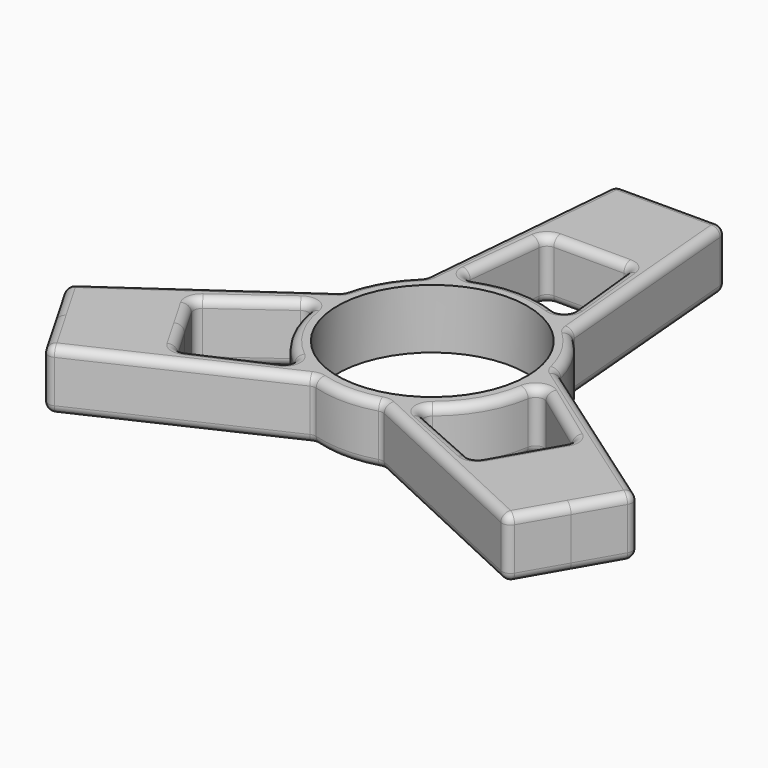
from build123d import *

# Parameters (mm, degrees)
F0_R     = 11.15
F1_DEPTH = 7
F2_R     = 1


with BuildPart() as f1:
    # F0 (on Top) → F1 (new body)
    with BuildSketch(Plane.XY):
        with BuildLine():
            ThreePointArc((12.9968226335, -0.2874046524), (12.9992056341, -0.1437111077), (13, 0))
            ThreePointArc((13, 0), (12.9289645608, 1.357157097), (12.716634556, 2.6994824632))
            ThreePointArc((12.716634556, 2.6994824632), (11.2583302492, 6.5), (8.6961376682, 9.6631873445))
            ThreePointArc((8.6961376682, 9.6631873445), (7.5230720531, 10.6020463536), (6.2495115866, 11.3992808952))
            ThreePointArc((6.2495115866, 11.3992808952), (0, 13), (-6.2495115866, 11.3992808952))
            ThreePointArc((-6.2495115866, 11.3992808952), (-7.5230720531, 10.6020463536), (-8.6961376682, 9.6631873445))
            ThreePointArc((-8.6961376682, 9.6631873445), (-11.2583302492, 6.5), (-12.716634556, 2.6994824632))
            ThreePointArc((-12.716634556, 2.6994824632), (-12.9431775009, 1.2141483357), (-12.9968226335, -0.2874046524))
            ThreePointArc((-12.9968226335, -0.2874046524), (-11.2583302492, -6.5), (-6.7473110468, -11.1118762429))
            ThreePointArc((-6.7473110468, -11.1118762429), (-5.4201054477, -11.8161946893), (-4.0204968878, -12.3626698077))
            ThreePointArc((-4.0204968878, -12.3626698077), (0, -13), (4.0204968878, -12.3626698077))
            ThreePointArc((4.0204968878, -12.3626698077), (5.4201054477, -11.8161946893), (6.7473110468, -11.1118762429))
            ThreePointArc((6.7473110468, -11.1118762429), (11.2583302492, -6.5), (12.9968226335, -0.2874046524))
        make_face()
        Circle(F0_R, mode=Mode.SUBTRACT)
        with BuildLine():
            ThreePointArc((12.716634556, 2.6994824632), (12.9289645608, 1.357157097), (13, 0))
            ThreePointArc((13, 0), (12.9992056341, -0.1437111077), (12.9968226335, -0.2874046524))
            Line((12.9968226335, -0.2874046524), (22.4284683668, -7.1527532528))
            Line((22.4284683668, -7.1527532528), (19.918584287, -11.5))
            Line((19.918584287, -11.5), (17.4087002073, -15.8472467472))
            Line((17.4087002073, -15.8472467472), (6.7473110468, -11.1118762429))
            ThreePointArc((6.7473110468, -11.1118762429), (5.4201054477, -11.8161946893), (4.0204968878, -12.3626698077))
            Line((4.0204968878, -12.3626698077), (27.071162237, -23.1113715856))
            Line((27.071162237, -23.1113715856), (30.3108891325, -17.5))
            Line((30.3108891325, -17.5), (33.5506160279, -11.8886284144))
            Line((33.5506160279, -11.8886284144), (12.716634556, 2.6994824632))
        make_face()
        with BuildLine():
            ThreePointArc((6.2495115866, 11.3992808952), (7.5230720531, 10.6020463536), (8.6961376682, 9.6631873445))
            Line((8.6961376682, 9.6631873445), (6.479453791, 35))
            Line((6.479453791, 35), (0, 35))
            Line((0, 35), (-6.479453791, 35))
            Line((-6.479453791, 35), (-8.6961376682, 9.6631873445))
            ThreePointArc((-8.6961376682, 9.6631873445), (-7.5230720531, 10.6020463536), (-6.2495115866, 11.3992808952))
            Line((-6.2495115866, 11.3992808952), (-5.0197681594, 23))
            Line((-5.0197681594, 23), (0, 23))
            Line((0, 23), (5.0197681594, 23))
            Line((5.0197681594, 23), (6.2495115866, 11.3992808952))
        make_face()
        with BuildLine():
            Line((-27.071162237, -23.1113715856), (-4.0204968878, -12.3626698077))
            ThreePointArc((-4.0204968878, -12.3626698077), (-5.4201054477, -11.8161946893), (-6.7473110468, -11.1118762429))
            Line((-6.7473110468, -11.1118762429), (-17.4087002073, -15.8472467472))
            Line((-17.4087002073, -15.8472467472), (-19.918584287, -11.5))
            Line((-19.918584287, -11.5), (-22.4284683668, -7.1527532528))
            Line((-22.4284683668, -7.1527532528), (-12.9968226335, -0.2874046524))
            ThreePointArc((-12.9968226335, -0.2874046524), (-12.9431775009, 1.2141483357), (-12.716634556, 2.6994824632))
            Line((-12.716634556, 2.6994824632), (-33.5506160279, -11.8886284144))
            Line((-33.5506160279, -11.8886284144), (-30.3108891325, -17.5))
            Line((-30.3108891325, -17.5), (-27.071162237, -23.1113715856))
        make_face()
    extrude(amount=F1_DEPTH)

    # F2
    f2_edges = [f1.edges().sort_by_distance(p)[0] for p in [
        (-27.071162, -23.111372, 3.5),
        (-4.020497, -12.36267, 3.5),
        (-15.54583, -17.737021, 0),
        (-15.54583, -17.737021, 7),
        (4.020497, -12.36267, 3.5),
        (0, -13, 0),
        (0, -13, 7),
        (27.071162, -23.111372, 3.5),
        (15.54583, -17.737021, 0),
        (15.54583, -17.737021, 7),
        (33.550616, -11.888628, 3.5),
        (30.310889, -17.5, 0),
        (30.310889, -17.5, 7),
        (12.716635, 2.699482, 3.5),
        (23.133625, -4.594573, 0),
        (23.133625, -4.594573, 7),
        (8.696138, 9.663187, 3.5),
        (11.25833, 6.5, 0),
        (11.25833, 6.5, 7),
        (6.479454, 35, 3.5),
        (7.587796, 22.331594, 0),
        (7.587796, 22.331594, 7),
        (-6.479454, 35, 3.5),
        (0, 35, 0),
        (0, 35, 7),
        (-8.696138, 9.663187, 3.5),
        (-7.587796, 22.331594, 0),
        (-7.587796, 22.331594, 7),
        (-12.716635, 2.699482, 3.5),
        (-11.25833, 6.5, 0),
        (-11.25833, 6.5, 7),
        (-33.550616, -11.888628, 3.5),
        (-23.133625, -4.594573, 0),
        (-23.133625, -4.594573, 7),
        (-30.310889, -17.5, 0),
        (-30.310889, -17.5, 7),
        (6.747311, -11.111876, 3.5),
        (12.996823, -0.287405, 3.5),
        (11.25833, -6.5, 0),
        (11.25833, -6.5, 7),
        (22.428468, -7.152753, 3.5),
        (17.712646, -3.720079, 0),
        (17.712646, -3.720079, 7),
        (17.4087, -15.847247, 3.5),
        (19.918584, -11.5, 0),
        (19.918584, -11.5, 7),
        (12.078006, -13.479561, 0),
        (12.078006, -13.479561, 7),
        (-5.019768, 23, 3.5),
        (5.019768, 23, 3.5),
        (0, 23, 0),
        (0, 23, 7),
        (6.249512, 11.399281, 3.5),
        (5.63464, 17.19964, 0),
        (5.63464, 17.19964, 7),
        (-6.249512, 11.399281, 3.5),
        (-5.63464, 17.19964, 0),
        (-5.63464, 17.19964, 7),
        (0, 13, 0),
        (0, 13, 7),
        (-12.996823, -0.287405, 3.5),
        (-6.747311, -11.111876, 3.5),
        (-11.25833, -6.5, 0),
        (-11.25833, -6.5, 7),
        (-22.428468, -7.152753, 3.5),
        (-17.712646, -3.720079, 0),
        (-17.712646, -3.720079, 7),
        (-17.4087, -15.847247, 3.5),
        (-19.918584, -11.5, 0),
        (-19.918584, -11.5, 7),
        (-12.078006, -13.479561, 0),
        (-12.078006, -13.479561, 7),
    ]]
    fillet(f2_edges, radius=F2_R)


solid = f1.part
